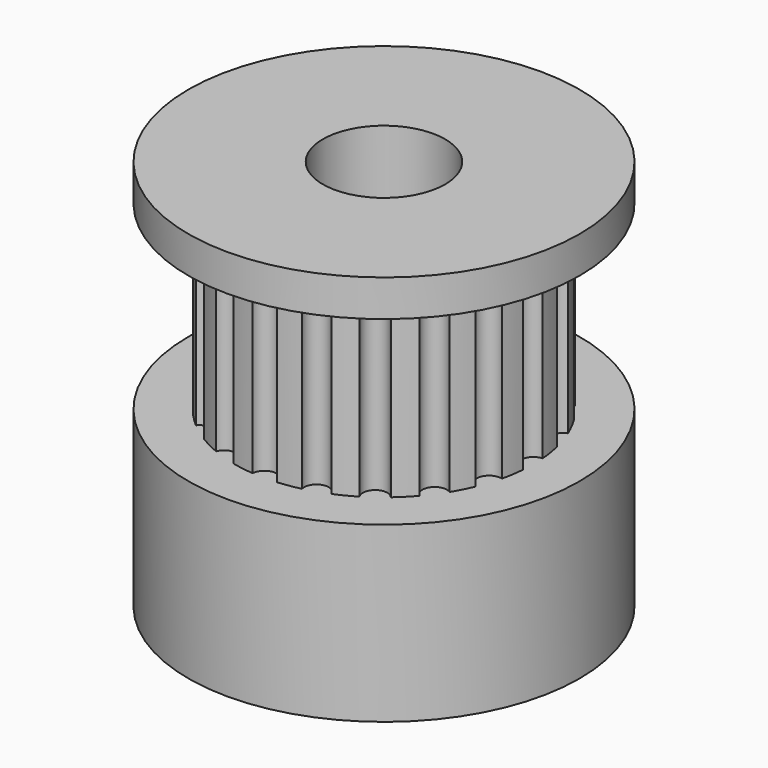
from build123d import *

# Parameters (mm, degrees)
SKETCH_R           = 8
PAD_DEPTH          = 16
SKETCH001_W        = 1.89
SKETCH001_H        = 7.4
SKETCH002_R        = 2.5
POCKET_DEPTH       = 16.001
POCKET001_DEPTH    = 7.5
POLARPATTERN_COUNT = 20


with BuildPart() as part:
    # Sketch → Pad (new body)
    with BuildSketch(Plane.XY):
        Circle(SKETCH_R)
    extrude(amount=PAD_DEPTH)

    # Sketch001 → Groove (revolve, cut)
    with BuildSketch(Plane.XZ):
        with Locations((7.055, 10.8)):
            Rectangle(SKETCH001_W, SKETCH001_H)
    revolve(axis=Axis((0, 0, 0), (0, 0, 1)), mode=Mode.SUBTRACT)

    # Sketch002 (on Face7 of Groove) → Pocket (cut, through all)
    with BuildSketch(Plane.XY.offset(16)):
        Circle(SKETCH002_R)
    extrude(amount=-POCKET_DEPTH, mode=Mode.SUBTRACT)

    # Sketch003 (on Face3 of Pocket) → Pocket001 (cut)
    with BuildSketch(Plane.XY.offset(7.1)):
        with BuildLine():
            ThreePointArc((6.089542, 0.499581), (5.61, 0), (6.089542, -0.499581))
            ThreePointArc((6.089542, -0.499581), (6.11, 0), (6.089542, 0.499581))
        make_face()
    pocket001 = extrude(amount=POCKET001_DEPTH, mode=Mode.SUBTRACT)

    # PolarPattern: Pocket001 ×20 about axis
    polarpattern_axis = Axis((0, 0, 7.1), (0, 0, 1))
    for i in range(1, POLARPATTERN_COUNT):
        add(pocket001.rotate(polarpattern_axis, i * 360 / POLARPATTERN_COUNT), mode=Mode.SUBTRACT)


solid = part.part
